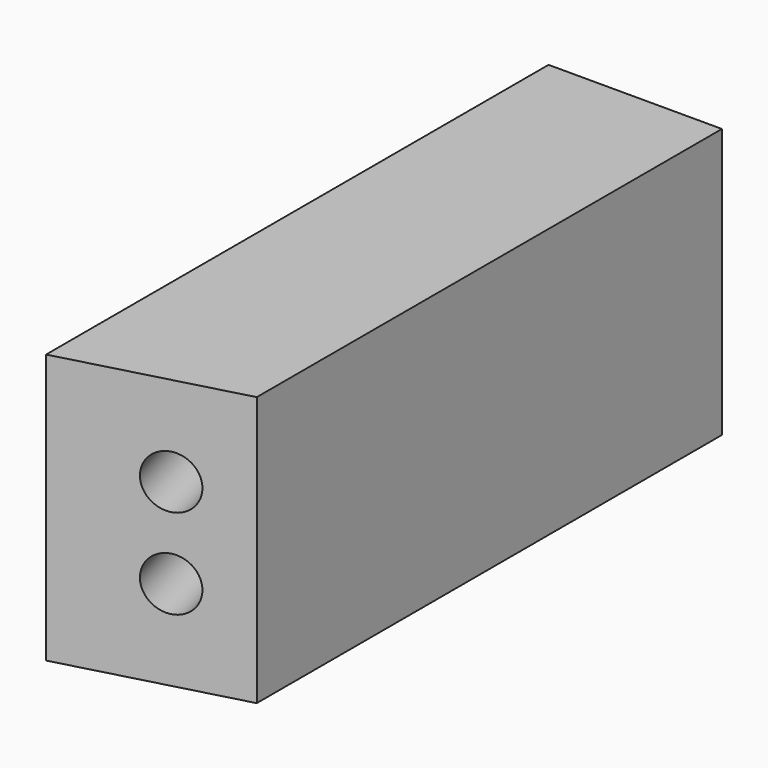
from build123d import *

# Parameters (mm, degrees)
F0_W      = 60
F0_H      = 48
F0_R      = 4.75
F1_DEPTH  = 108
F3_DEPTH  = 48
F5_DEPTH  = 48
F7_DEPTH  = 48
F9_DEPTH  = 48
F10_ANGLE = -15


with BuildPart() as f1:
    # F0 (on Front) → F1 (new body)
    with BuildSketch(Plane.XZ):
        with Locations((11.7113751173, 5.7986730486)):
            Rectangle(F0_W, F0_H)
        with Locations((0.7113751173, -2.2013269514)):
            Circle(F0_R, mode=Mode.SUBTRACT)
        with Locations((0.7113751173, 13.7986730486)):
            Circle(F0_R, mode=Mode.SUBTRACT)
    extrude(amount=F1_DEPTH)

    # F2 (on face) → F3 (cut)
    with BuildSketch(Plane(origin=(0, 0, -18.2013269514), x_dir=(1, 0, 0), z_dir=(0, 0, -1))):
        Polygon((10.7113751173, 0), (-18.2886248827, 108), (-18.2886248827, 0), align=None)
    extrude(amount=-F3_DEPTH, mode=Mode.SUBTRACT)

    # F4 (on face) → F5 (cut)
    with BuildSketch(Plane(origin=(0, 0, -18.2013269514), x_dir=(1, 0, 0), z_dir=(0, 0, -1))):
        Polygon((41.7113751173, 108), (41.7113751173, 3.724137931), (42.3088373496, 1.4991061694), (42.3088373496, 108), align=None)
        Polygon((41.7113751173, 108), (13.7113751173, 108), (41.7113751173, 3.724137931), align=None)
    extrude(amount=-F5_DEPTH, mode=Mode.SUBTRACT)

    # F6 (on face) → F7 (cut)
    with BuildSketch(Plane(origin=(0, 0, -18.2013269514), x_dir=(1, 0, 0), z_dir=(0, 0, -1))):
        Polygon((41.7113751173, 3.724137931), (10.7113751173, 0), (41.7113751173, 0), align=None)
    extrude(amount=-F7_DEPTH, mode=Mode.SUBTRACT)

    # F8 (on face) → F9 (cut)
    with BuildSketch(Plane(origin=(0, 0, -18.2013269514), x_dir=(1, 0, 0), z_dir=(0, 0, -1))):
        Polygon((40.559275957, 8.0147141144), (10.7113751173, 0), (42.3792054196, 1.2370457707), align=None)
    extrude(amount=-F9_DEPTH, mode=Mode.SUBTRACT)


with BuildPart() as f1_1:
    # F10: moved
    add(f1.part.rotate(Axis((-18.2886248827, -108, 5.7986730486), (0, 0, -1)), F10_ANGLE))


solid = f1_1.part
